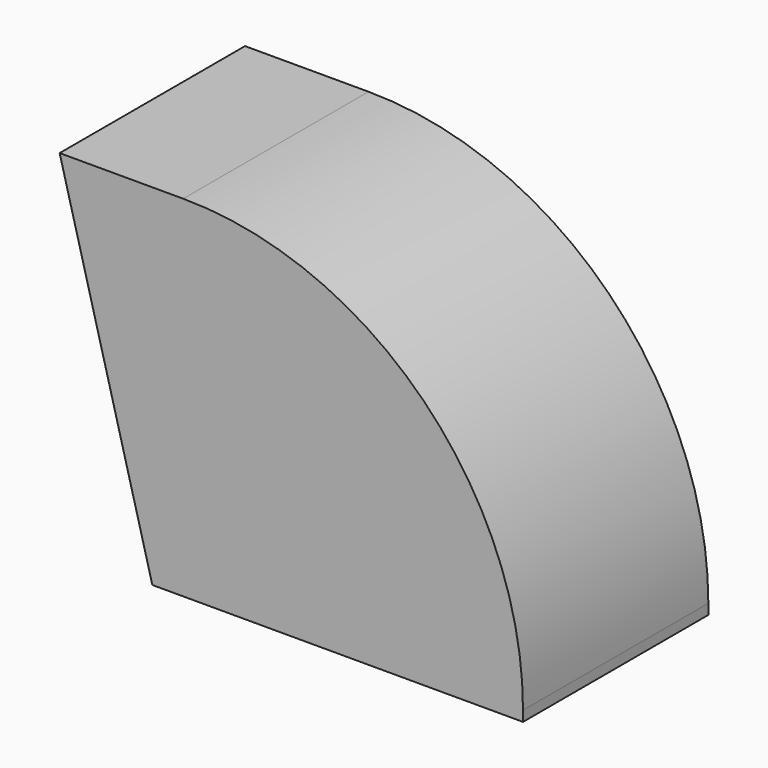
from build123d import *

# Parameters (mm, degrees)
F1_DEPTH = 75
F2_R     = 110


with BuildPart() as f1:
    # F0 (on Front) → F1 (new body)
    with BuildSketch(Plane.XZ):
        Polygon((21.498629, 113.340293), (51.498629, 0), (171.498629, 0), (171.498629, 113.340293), align=None)
    extrude(amount=F1_DEPTH)

    # F2
    f2_edges = [f1.edges().sort_by_distance(p)[0] for p in [
        (171.498629, -37.5, 113.340293),
    ]]
    fillet(f2_edges, radius=F2_R)


solid = f1.part
